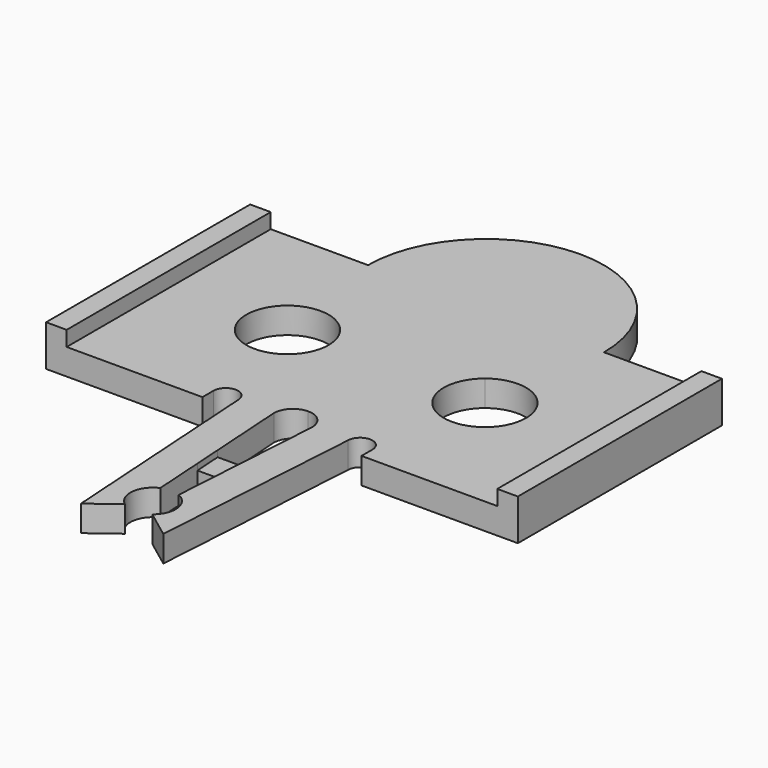
from build123d import *

# Parameters (mm, degrees)
F1_DEPTH = 1.9
F0_W     = 1.5
F0_H     = 18.6
F2_DEPTH = 3
F3_DEPTH = 1.45
F4_DEPTH = 0.45


with BuildPart() as f1:
    # F0 (on Top) → F1 (new body)
    with BuildSketch(Plane.XY):
        with BuildLine():
            Line((-15.7, 0), (-5.8, 0))
            Line((-5.8, 0), (-5.8, 1))
            ThreePointArc((-5.8, 1), (-4.9, 1.9), (-4, 1))
            Line((-4, 1), (-3, -14.567916))
            Line((-3, -14.567916), (-1, -13.067916))
            ThreePointArc((-1, -13.067916), (-1.638952, -11.564856), (-0.672094, -10.248561))
            Line((-0.672094, -10.248561), (-0.908519, -6.567916))
            Line((-0.908519, -6.567916), (-1.036988, -4.567916))
            Line((-1.036988, -4.567916), (-1.394642, 1))
            ThreePointArc((-1.394642, 1), (-0.986161, 1.986161), (0, 2.394642))
            ThreePointArc((0, 2.394642), (0.986161, 1.986161), (1.394642, 1))
            Line((1.394642, 1), (1.036988, -4.567916))
            Line((1.036988, -4.567916), (0.908519, -6.567916))
            Line((0.908519, -6.567916), (0.672094, -10.248561))
            ThreePointArc((0.672094, -10.248561), (1.638952, -11.564856), (1, -13.067916))
            Line((1, -13.067916), (3, -14.567916))
            Line((3, -14.567916), (4, 1))
            ThreePointArc((4, 1), (4.9, 1.9), (5.8, 1))
            Line((5.8, 1), (5.8, 0))
            Line((5.8, 0), (15.7, 0))
            Line((15.7, 0), (15.7, 18.6))
            Line((15.7, 18.6), (8.603879, 18.6))
            ThreePointArc((8.603879, 18.6), (7.744643, 14.852036), (5.338554, 11.852662))
            ThreePointArc((5.338554, 11.852662), (0, 9.996121), (-5.338553, 11.852662))
            ThreePointArc((-5.338553, 11.852662), (-7.744643, 14.852036), (-8.603879, 18.6))
            Line((-8.603879, 18.6), (-15.7, 18.6))
            Line((-15.7, 18.6), (-15.7, 0))
        make_face()
        with BuildLine():
            ThreePointArc((-4.2, 9.5), (-9.900402, 8.19316), (-5.338553, 11.852662))
            ThreePointArc((-5.338553, 11.852662), (-4.499598, 10.80684), (-4.2, 9.5))
        make_face(mode=Mode.SUBTRACT)
        with BuildLine():
            ThreePointArc((10.2, 9.5), (5.89316, 6.799598), (5.338554, 11.852662))
            ThreePointArc((5.338554, 11.852662), (8.50684, 12.200402), (10.2, 9.5))
        make_face(mode=Mode.SUBTRACT)
        with BuildLine():
            Line((0, 18.6), (-8.603879, 18.6))
            ThreePointArc((-8.603879, 18.6), (-7.744643, 14.852036), (-5.338553, 11.852662))
            ThreePointArc((-5.338553, 11.852662), (0, 9.996121), (5.338554, 11.852662))
            ThreePointArc((5.338554, 11.852662), (7.744643, 14.852036), (8.603879, 18.6))
            Line((8.603879, 18.6), (0, 18.6))
        make_face()
        with BuildLine():
            ThreePointArc((8.603879, 18.6), (0, 27.203879), (-8.603879, 18.6))
            Line((-8.603879, 18.6), (0, 18.6))
            Line((0, 18.6), (8.603879, 18.6))
        make_face()
    extrude(amount=F1_DEPTH)

    # F0 (on Top) → F2 (join)
    with BuildSketch(Plane.XY):
        with Locations((-16.45, 9.3)):
            Rectangle(F0_W, F0_H)
        with Locations((16.45, 9.3)):
            Rectangle(F0_W, F0_H)
    extrude(amount=F2_DEPTH)

    # F0 (on Top) → F3 (join)
    with BuildSketch(Plane.XY):
        Polygon((-1.036988, -4.567916), (-0.908519, -6.567916), (0.908519, -6.567916), (1.036988, -4.567916), align=None)
    extrude(amount=F3_DEPTH)

    # F0 (on Top) → F4 (cut)
    with BuildSketch(Plane.XY):
        Polygon((-1.036988, -4.567916), (-0.908519, -6.567916), (0.908519, -6.567916), (1.036988, -4.567916), align=None)
    extrude(amount=F4_DEPTH, mode=Mode.SUBTRACT)


solid = f1.part
